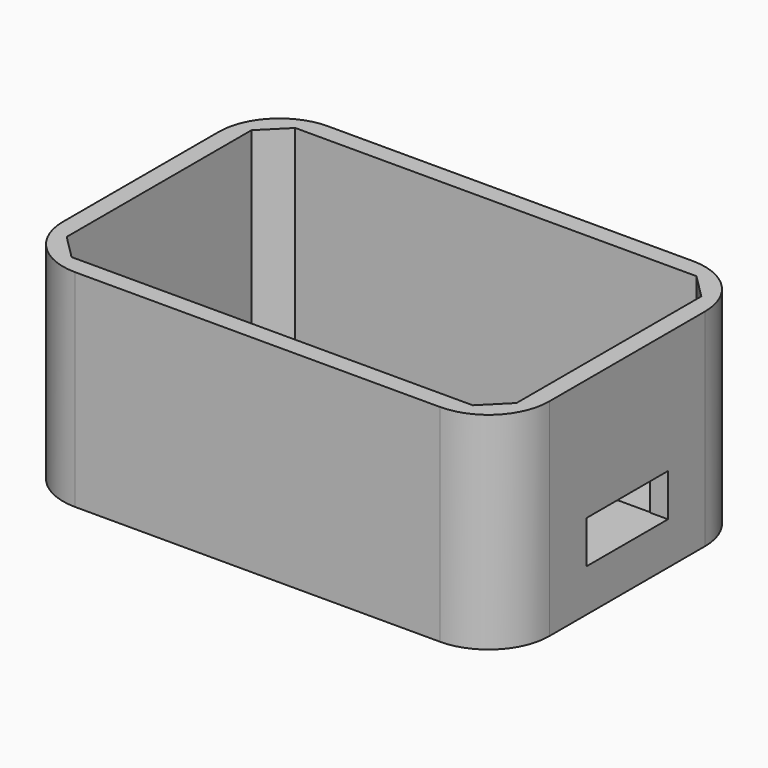
from build123d import *

# Parameters (mm, degrees)
F0_W     = 40
F0_H     = 26
F1_DEPTH = 17
F2_T     = -1.5
F3_W     = 37
F3_H     = 8.5
F4_DEPTH = 2
F5_W     = 8.4
F5_H     = 3.5
F6_DEPTH = 1.5
F7_SIZE  = 2
F8_R     = 5


with BuildPart() as f1:
    # F0 (on Top) → F1 (new body)
    with BuildSketch(Plane.XY):
        Rectangle(F0_W, F0_H)
    extrude(amount=F1_DEPTH)

    # F2
    f2_openings = [f1.faces().sort_by_distance(p)[0] for p in [
        (0, 0, 17),
    ]]
    offset(amount=F2_T, openings=f2_openings)

    # F3 (on face) → F4 (join)
    with BuildSketch(Plane.XY.offset(1.5)):
        Rectangle(F3_W, F3_H)
    extrude(amount=F4_DEPTH)

    # F5 (on face) → F6 (cut, through all)
    with BuildSketch(Plane.YZ.offset(20)):
        with Locations((0, 5.25)):
            Rectangle(F5_W, F5_H)
    extrude(amount=-F6_DEPTH, mode=Mode.SUBTRACT)

    # F7
    f7_edges = [f1.edges().sort_by_distance(p)[0] for p in [
        (-18.5, 11.5, 9.25),
        (18.5, 11.5, 9.25),
        (18.5, -11.5, 9.25),
        (-18.5, -11.5, 9.25),
    ]]
    chamfer(f7_edges, length=F7_SIZE)

    # F8
    f8_edges = [f1.edges().sort_by_distance(p)[0] for p in [
        (-20, 13, 8.5),
        (20, 13, 8.5),
        (20, -13, 8.5),
        (-20, -13, 8.5),
    ]]
    fillet(f8_edges, radius=F8_R)


solid = f1.part
